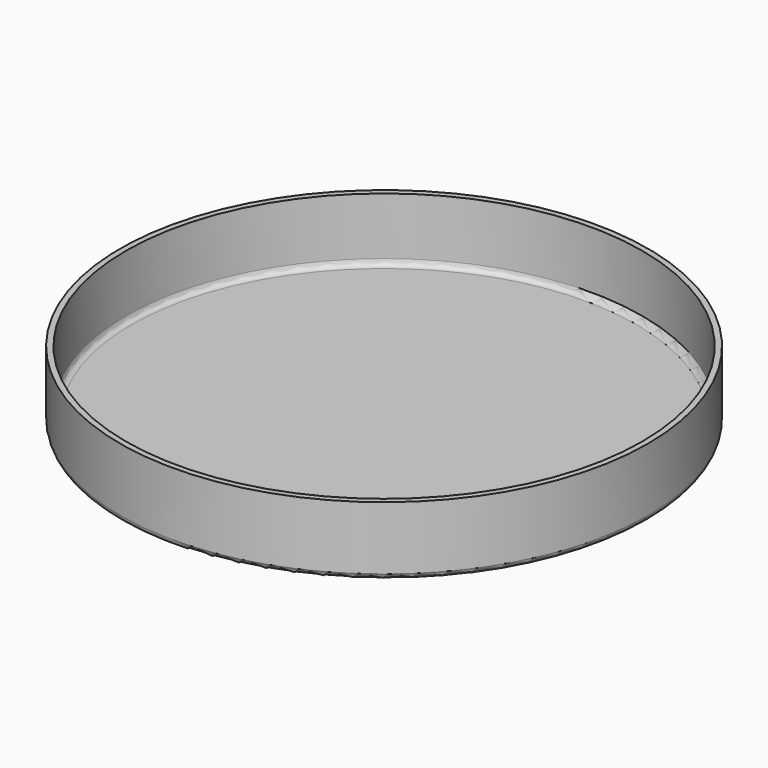
from build123d import *

# Parameters (mm, degrees)
SKETCH_R     = 46
PAD_DEPTH    = 12
SKETCH001_R  = 45
POCKET_DEPTH = 11
FILLET_R     = 1


with BuildPart() as part:
    # Sketch → Pad (new body)
    with BuildSketch(Plane.XY):
        Circle(SKETCH_R)
    extrude(amount=PAD_DEPTH)

    # Sketch001 (on Face3 of Pad) → Pocket (cut)
    with BuildSketch(Plane.XY.offset(12)):
        Circle(SKETCH001_R)
    extrude(amount=-POCKET_DEPTH, mode=Mode.SUBTRACT)

    # Fillet
    fillet_edges = [part.edges().sort_by_distance(p)[0] for p in [
        (-46, 0, 0),
        (-45, 0, 1),
    ]]
    fillet(fillet_edges, radius=FILLET_R)


solid = part.part
